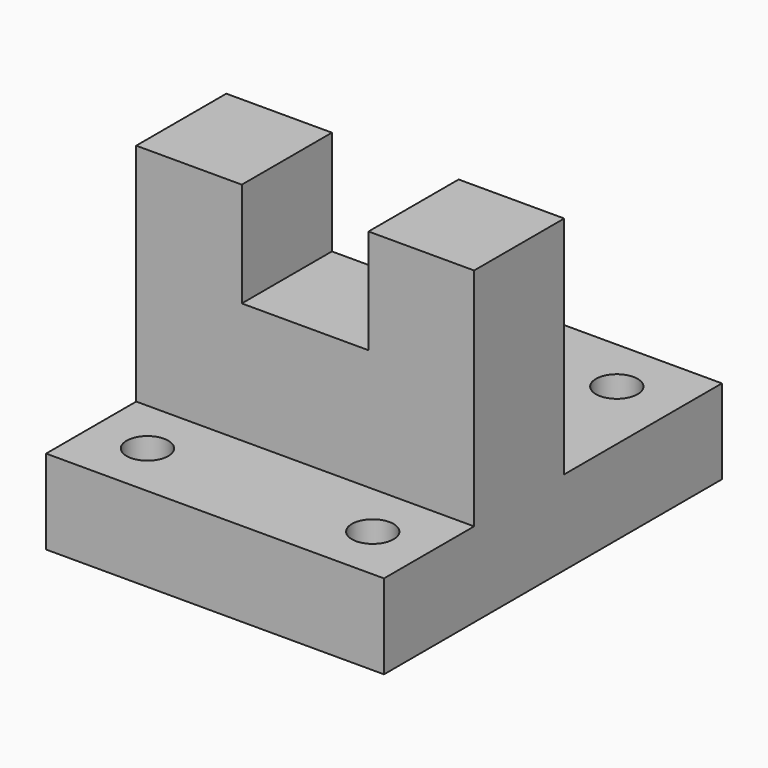
from build123d import *

# Parameters (mm, degrees)
F1_DEPTH = 76.2
F2_W     = 28.575
F2_H     = 23.576327
F3_DEPTH = 50.801
F6_D     = 9.398
F8_D     = 9.398
F10_D    = 9.398


with BuildPart() as f1:
    # F0 (on Right) → F1 (new body)
    with BuildSketch(Plane.YZ):
        Polygon((-44.545047, -32.283712), (50.704953, -32.283712), (50.704953, -13.233712), (6.254953, -13.233712), (6.254953, 37.566288), (-19.145047, 37.566288), (-19.145047, -13.233712), (-44.545047, -13.233712), align=None)
    extrude(amount=F1_DEPTH)

    # F2 (on face) → F3 (cut, through all)
    with BuildSketch(Plane(origin=(0, 6.254953, 0), x_dir=(-1, 0, 0), z_dir=(0, 1, 0))):
        with Locations((-38.1, 25.778125)):
            Rectangle(F2_W, F2_H)
    extrude(amount=-F3_DEPTH, mode=Mode.SUBTRACT)

    # F6 (through all)
    with Locations(Plane.XY.offset(-13.233712)):
        with Locations((12.7, 37.945128)):
            Hole(F6_D / 2)

    # F8 (through all)
    with Locations(Plane.XY.offset(-13.233712)):
        with Locations((62.49947, 38.197309)):
            Hole(F8_D / 2)

    # F10 (through all)
    with Locations(Plane.XY.offset(-13.233712)):
        with Locations((12.7, -31.845047), (63.5, -31.845047)):
            Hole(F10_D / 2)


solid = f1.part
